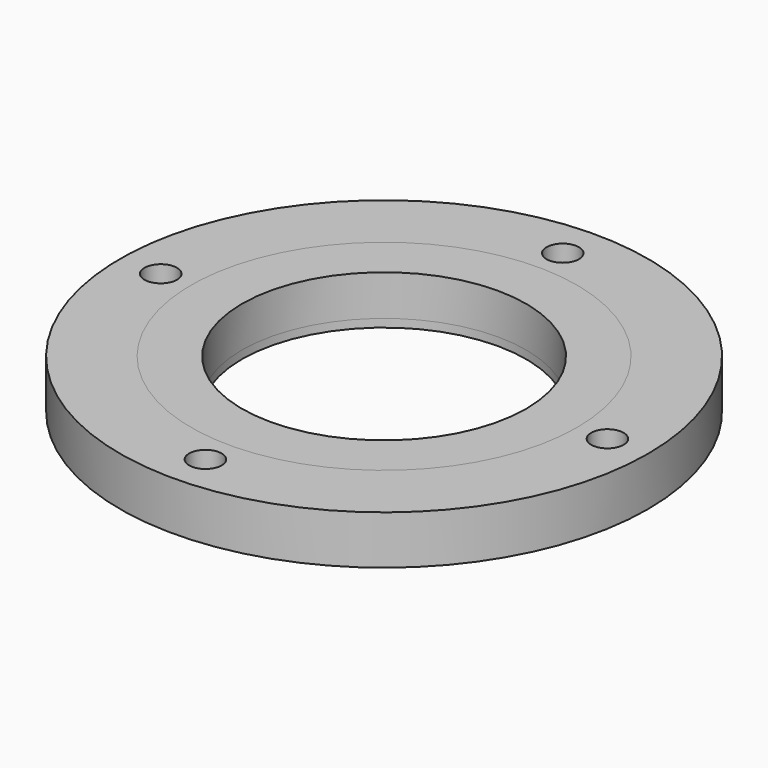
from build123d import *

# Parameters (mm, degrees)
CYLINDER002_R     = 4
CYLINDER002_DEPTH = 12
ARRAY_COUNT       = 4
CYLINDER001_R     = 35
CYLINDER001_DEPTH = 12
CYLINDER_R        = 65
CYLINDER_DEPTH    = 12
TORUS_R           = 1.5
CYLINDER005_R     = 45
CYLINDER005_DEPTH = 2
CYLINDER004_R     = 35
CYLINDER004_DEPTH = 12
CYLINDER003_R     = 47.5
CYLINDER003_DEPTH = 12


with BuildPart() as array:
    # Cylinder002 → Cylinder002 (new body)
    with BuildSketch(Plane(origin=(55, 0, 0), x_dir=(1, 0, 0), z_dir=(0, 0, 1))):
        Circle(CYLINDER002_R)
    extrude(amount=CYLINDER002_DEPTH)

    # Array: Array ×4 about axis
    array_axis = Axis((0, 0, 0), (0, 0, 1))


with BuildPart() as array_1:
    add(array.part)
    for i in range(1, ARRAY_COUNT):
        add(array.part.rotate(array_axis, i * 360 / ARRAY_COUNT))


with BuildPart() as cylinder001:
    # Cylinder001 → Cylinder001 (new body)
    with BuildSketch(Plane.XY):
        Circle(CYLINDER001_R)
    extrude(amount=CYLINDER001_DEPTH)


with BuildPart() as boltedflange:
    # Cylinder → Cylinder (new body)
    with BuildSketch(Plane.XY):
        Circle(CYLINDER_R)
    extrude(amount=CYLINDER_DEPTH)

    # Cut: cut Cylinder001
    add(cylinder001.part, mode=Mode.SUBTRACT)

    # Cut001: cut Array
    add(array_1.part, mode=Mode.SUBTRACT)


with BuildPart() as torus:
    # Torus → Torus (revolve)
    with BuildSketch(Plane(origin=(0, 0, 7), x_dir=(1, 0, 0), z_dir=(0, -1, 0))):
        with Locations((47.5, 0)):
            Circle(TORUS_R)
    revolve(axis=Axis((0, 0, 7), (0, 0, 1)))


with BuildPart() as cylinder005:
    # Cylinder005 → Cylinder005 (new body)
    with BuildSketch(Plane.XY):
        Circle(CYLINDER005_R)
    extrude(amount=CYLINDER005_DEPTH)


with BuildPart() as fusion:
    # Cylinder004 → Cylinder004 (new body)
    with BuildSketch(Plane.XY):
        Circle(CYLINDER004_R)
    extrude(amount=CYLINDER004_DEPTH)

    # Fusion: union Cylinder005
    add(cylinder005.part)


with BuildPart() as obj1:
    # Cylinder003 → Cylinder003 (new body)
    with BuildSketch(Plane.XY):
        Circle(CYLINDER003_R)
    extrude(amount=CYLINDER003_DEPTH)

    # Cut002: cut Fusion
    add(fusion.part, mode=Mode.SUBTRACT)

    # Cut003: cut Torus
    add(torus.part, mode=Mode.SUBTRACT)


solid = Compound([boltedflange.part, obj1.part])
